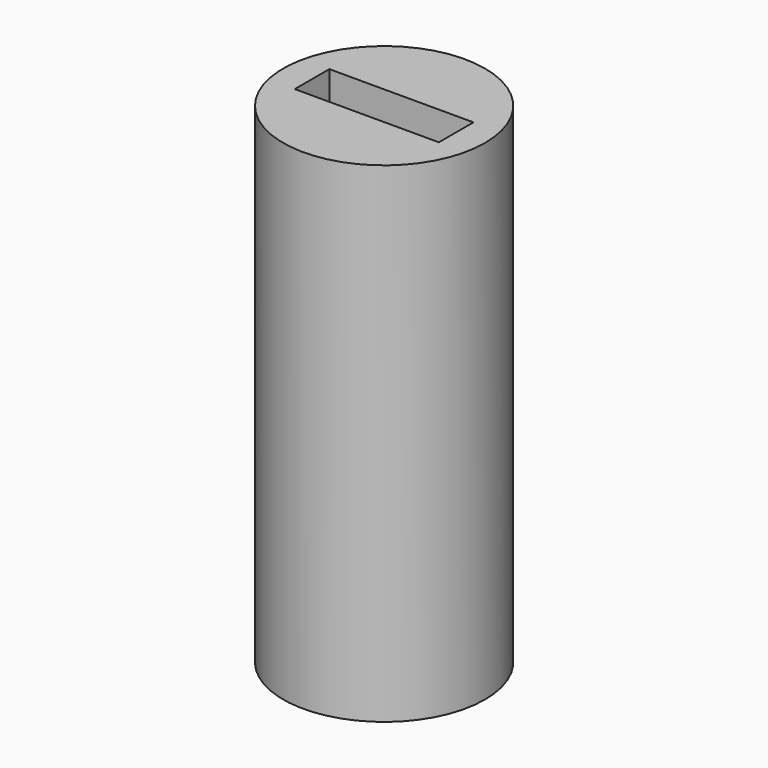
from build123d import *

# Parameters (mm, degrees)
F0_R     = 3.5
F1_DEPTH = 10
F2_R     = 2.6
F3_DEPTH = 4
F4_DEPTH = 7
F5_W     = 5
F5_H     = 1.5
F6_DEPTH = 6


with BuildPart() as f1:
    # F0 (on Top) → F1 (new body)
    with BuildSketch(Plane.XY):
        Circle(F0_R)
        Circle(F0_R)
    extrude(amount=F1_DEPTH)

    # F2 (on face) → F3 (cut)
    with BuildSketch(Plane(origin=(0, 0, 0), x_dir=(1, 0, 0), z_dir=(0, 0, -1))):
        with Locations((0, 0.1646061121)):
            Circle(F2_R)
    extrude(amount=-F3_DEPTH, mode=Mode.SUBTRACT)

    # F4 (add): a face of the model
    f4_faces = [f1.faces().sort_by_distance(p)[0] for p in [
        (0, 0, 10),
    ]]
    extrude(f4_faces, amount=F4_DEPTH)

    # F5 (on face) → F6 (cut)
    with BuildSketch(Plane.XY.offset(17)):
        Rectangle(F5_W, F5_H)
    extrude(amount=-F6_DEPTH, mode=Mode.SUBTRACT)


solid = f1.part
